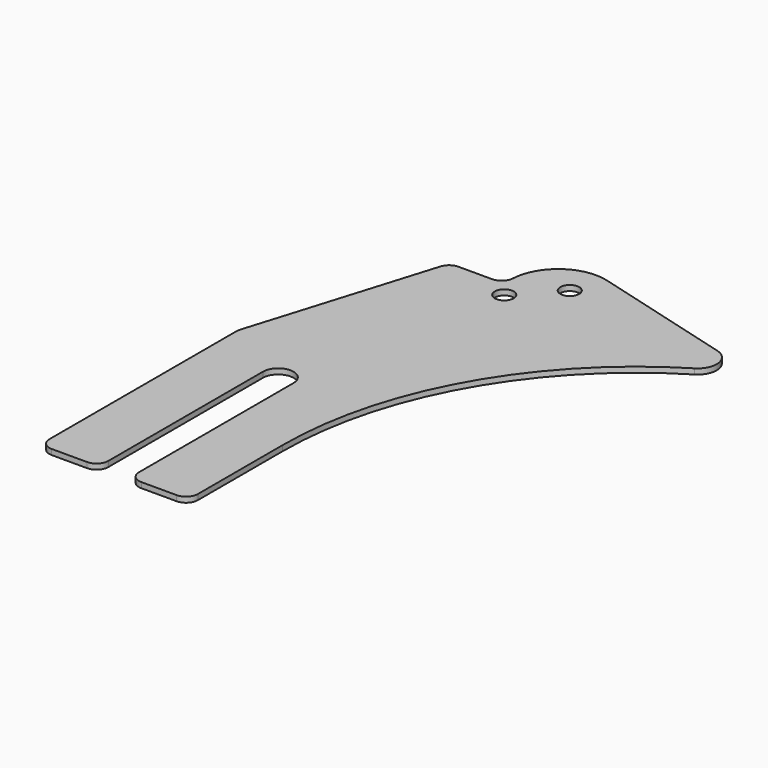
from build123d import *

# Parameters (mm, degrees)
F0_R     = 4
F1_DEPTH = 1.15


with BuildPart() as f1:
    # F0 (on Top) → F1 (new body, symmetric)
    with BuildSketch(Plane.XY):
        with BuildLine():
            Line((0, 104.2527449933), (0, 5))
            ThreePointArc((0, 5), (1.4644660941, 1.4644660941), (5, 0))
            Line((5, 0), (20, 0))
            ThreePointArc((20, 0), (23.5355339059, 1.4644660941), (25, 5))
            Line((25, 5), (25, 87))
            ThreePointArc((25, 87), (31.5, 93.5), (38, 87))
            Line((38, 87), (38, 5))
            ThreePointArc((38, 5), (39.4644660941, 1.4644660941), (43, 0))
            Line((43, 0), (58, 0))
            ThreePointArc((58, 0), (61.5355339059, 1.4644660941), (63, 5))
            Line((63, 5), (63, 50))
            ThreePointArc((63, 50), (82.2877553457, 123.5819889472), (135.1907879657, 178.2408925523))
            ThreePointArc((135.1907879657, 178.2408925523), (138.9645479522, 186.183496409), (133.1648571292, 192.7933229436))
            Line((133.1648571292, 192.7933229436), (73.1613294147, 209.3164017371))
            ThreePointArc((73.1613294147, 209.3164017371), (55.7312543589, 205.9431448766), (47.8515949014, 190.0341114323))
            Line((47.8515949014, 190.0341114323), (47.8515949014, 191.2859042569))
            ThreePointArc((47.8515949014, 191.2859042569), (46.3871288074, 187.7503703509), (42.8515949014, 186.2859042569))
            Line((42.8515949014, 186.2859042569), (28.5514002766, 186.2859042569))
            ThreePointArc((28.5514002766, 186.2859042569), (25.5772863428, 185.3051885599), (23.7698764968, 182.7477627805))
            Line((23.7698764968, 182.7477627805), (0.2184762202, 105.7146035169))
            ThreePointArc((0.2184762202, 105.7146035169), (0.0549206832, 104.9917920489), (0, 104.2527449933))
        make_face()
        with Locations((53, 180)):
            Circle(F0_R, mode=Mode.SUBTRACT)
        with Locations((68, 196)):
            Circle(F0_R, mode=Mode.SUBTRACT)
    extrude(amount=F1_DEPTH, both=True)


solid = f1.part
